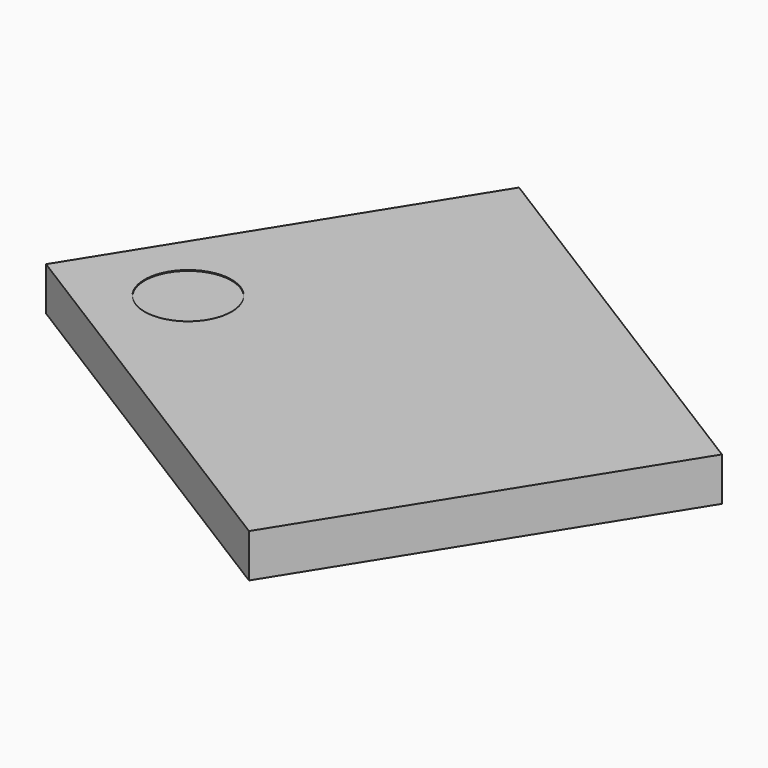
from build123d import *

# Parameters (mm, degrees)
CYLINDER081_R          = 0.5
CYLINDER081_DEPTH      = 0.01
BOX174_W               = 4.5
BOX174_H               = 5.5
BOX174_DEPTH           = 0.5
CUT085_PLACEMENT_ANGLE = 58


with BuildPart() as cylinder081:
    # Cylinder081 → Cylinder081 (new body)
    with BuildSketch(Plane(origin=(1, 4.5, 0.49), x_dir=(1, 0, 0), z_dir=(0, 0, 1))):
        Circle(CYLINDER081_R)
    extrude(amount=CYLINDER081_DEPTH)


with BuildPart() as obj1:
    # Box174 → Box174 (new body)
    with BuildSketch(Plane.XY):
        with Locations((2.25, 2.75)):
            Rectangle(BOX174_W, BOX174_H)
    extrude(amount=BOX174_DEPTH)

    # Cut085: cut Cylinder081
    add(cylinder081.part, mode=Mode.SUBTRACT)


with BuildPart() as obj1_1:
    # Cut085 placement: moved
    add(obj1.part.moved(Location((-7.397519, 16.08879, 2.19))).rotate(Axis((-7.397519, 16.08879, 2.19), (0, 0, 1)), CUT085_PLACEMENT_ANGLE))


solid = obj1_1.part
